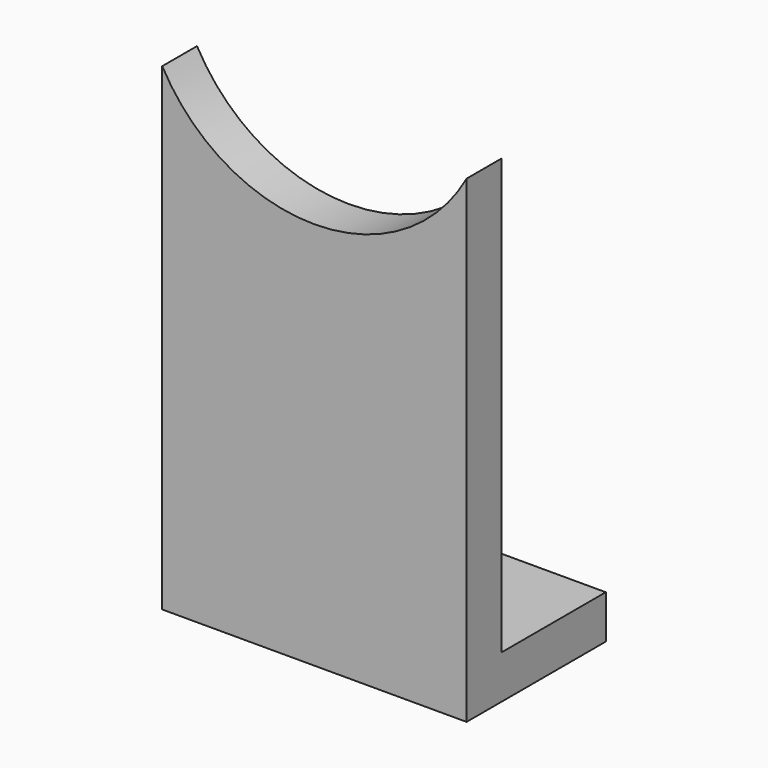
from build123d import *

# Parameters (mm, degrees)
F1_DEPTH = 3.175
F2_W     = 44.45
F2_H     = 19.05
F3_DEPTH = 6.35


with BuildPart() as f1:
    # F0 (on Front) → F1 (new body, symmetric)
    with BuildSketch(Plane.XZ):
        with BuildLine():
            Line((-22.225, 69.85), (-22.225, 0))
            Line((-22.225, 0), (22.225, 0))
            Line((22.225, 0), (22.225, 69.85))
            ThreePointArc((22.225, 69.85), (0, 56.746722), (-22.225, 69.85))
        make_face()
    extrude(amount=F1_DEPTH, both=True)

    # F2 (on face) → F3 (join)
    with BuildSketch(Plane(origin=(0, 0, 0), x_dir=(1, 0, 0), z_dir=(0, 0, -1))):
        with Locations((0, -12.7)):
            Rectangle(F2_W, F2_H)
    extrude(amount=-F3_DEPTH)


solid = f1.part
